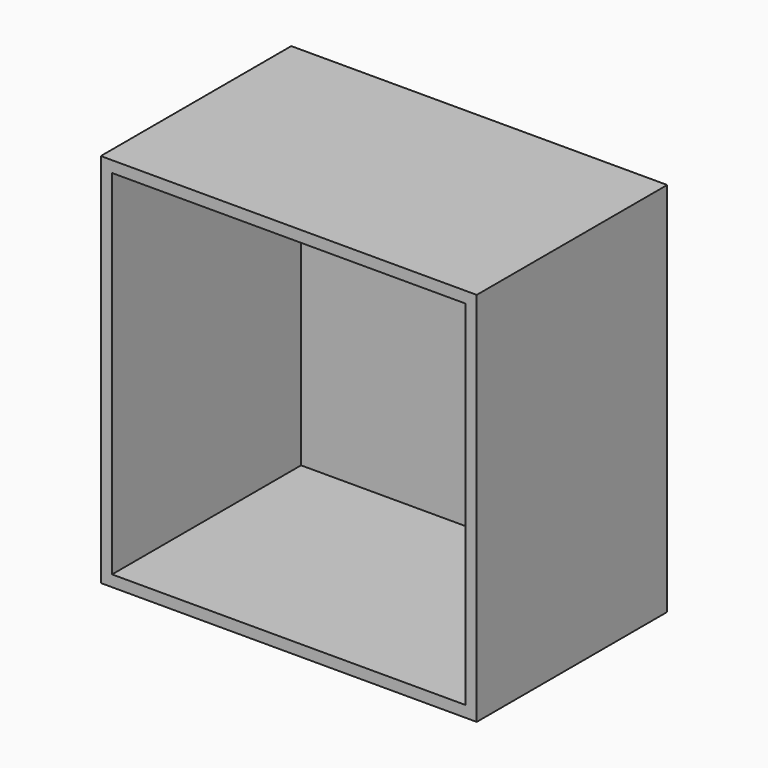
from build123d import *

# Parameters (mm, degrees)
F2_DEPTH = 600
F1_W     = 600
F1_H     = 380
F3_DEPTH = 18
F4_W     = 564
F4_H     = 377
F5_DEPTH = 18


with BuildPart() as f2:
    # F0 (on Top) → F2 (new body)
    with BuildSketch(Plane.XY):
        Polygon((81.165642, 334.102758), (-518.834358, 334.102758), (-518.834358, -45.897242), (-500.834358, -45.897242), (-500.834358, 331.102758), (63.165642, 331.102758), (63.165642, -45.897242), (81.165642, -45.897242), align=None)
    extrude(amount=F2_DEPTH)

    # F1 (on Top) → F3 (join)
    with BuildSketch(Plane.XY):
        with Locations((-218.834358, 144.102758)):
            Rectangle(F1_W, F1_H)
    extrude(amount=F3_DEPTH)

    # F4 (on face) → F5 (join)
    with BuildSketch(Plane.XY.offset(600)):
        with Locations((-218.834358, 142.602758)):
            Rectangle(F4_W, F4_H)
    extrude(amount=-F5_DEPTH)


solid = f2.part
